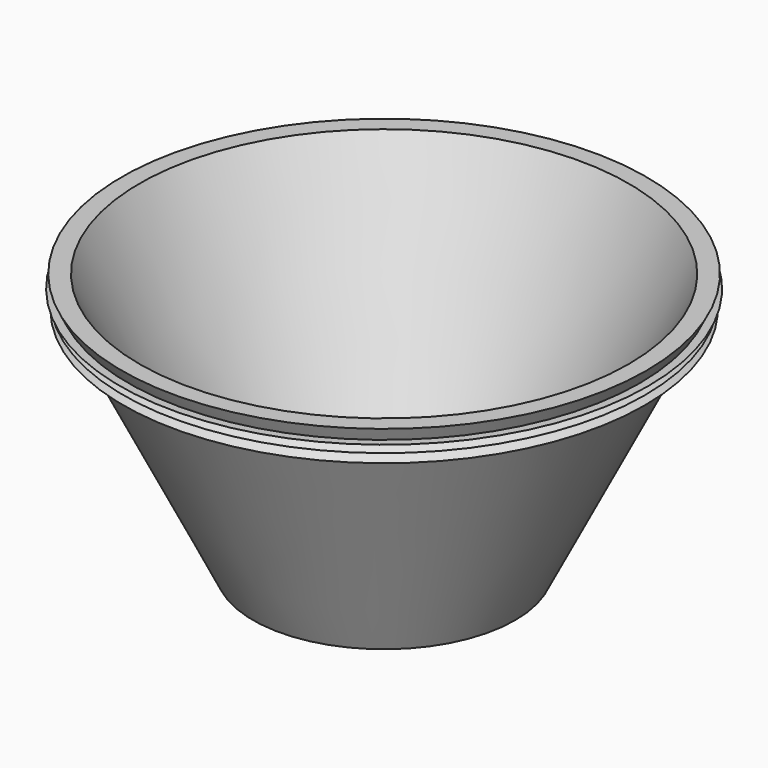
from build123d import *


with BuildPart() as f1:
    # F0 (on Front) → F1 (revolve)
    with BuildSketch(Plane.XZ):
        Polygon((0, 3.0734), (0, 0), (25.4, 0), (47.691843, 44.583686), (48.330588, 45.861176), (49.018093, 47.236187), (49.530066, 48.260132), (50.8, 50.8), (47.363834, 50.8), (23.500534, 3.0734), align=None)
        Polygon((48.330588, 45.861176), (47.691843, 44.583686), (50.484791, 44.784075), align=None)
        Polygon((49.018093, 47.236187), (48.330588, 45.861176), (50.484791, 46.502838), align=None)
        Polygon((49.530066, 48.260132), (49.018093, 47.236187), (51.123537, 48.260132), align=None)
    revolve(axis=Axis((0, 0, 25.4), (0, 0, 1)))


solid = f1.part
